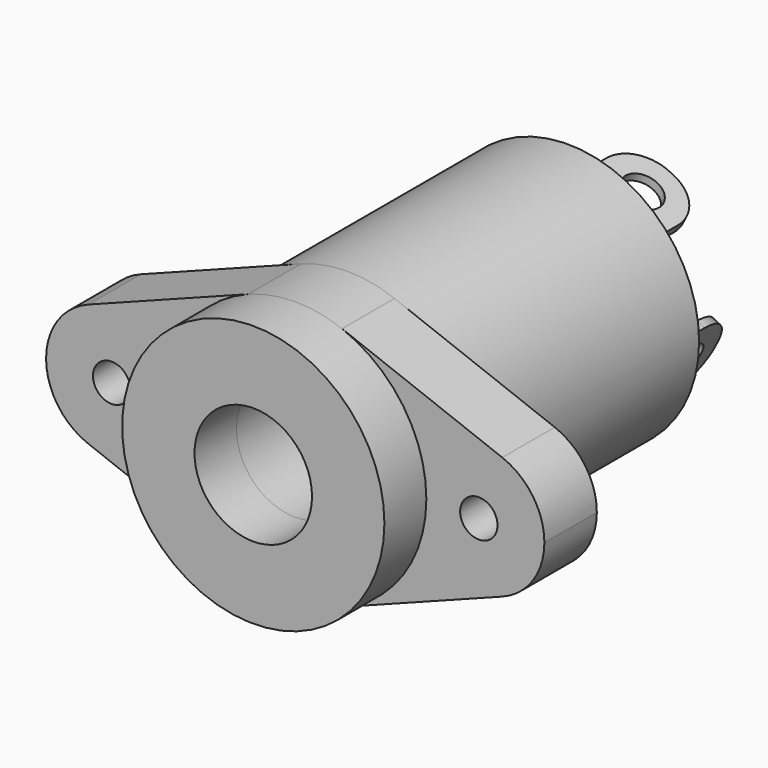
from build123d import *

# Parameters (mm, degrees)
F0_R          = 1.1303
F0_R_2        = 3.556
F1_DEPTH      = 3.96875
F2_R          = 7.9375
F2_R_2        = 3.556
F3_DEPTH      = 3.175
F3_DEPTH_BACK = 20.6375
F5_DEPTH      = 4.445
F6_R          = 1.143
F7_DEPTH      = 20.0161085099
F8_R          = 1.143
F9_DEPTH      = 23.1380417346


with BuildPart() as f1:
    # F0 (on Front) → F1 (new body)
    with BuildSketch(Plane.XZ):
        with BuildLine():
            ThreePointArc((-7.6823660714, -1.9962860002), (-7.9375, 0), (-7.6823660714, 1.9962860002))
            ThreePointArc((-7.6823660714, 1.9962860002), (-9.7917396627, 3.7425350625), (-12.5299107143, 3.707010039))
            ThreePointArc((-12.5299107143, 3.707010039), (-15.08125, 0), (-12.5299107143, -3.707010039))
            ThreePointArc((-12.5299107143, -3.707010039), (-9.7917396627, -3.7425350625), (-7.6823660714, -1.9962860002))
        make_face()
        with Locations((-11.1125, 0)):
            Circle(F0_R, mode=Mode.SUBTRACT)
        with BuildLine():
            ThreePointArc((12.5299107143, 3.707010039), (9.7917396627, 3.7425350625), (7.6823660714, 1.9962860002))
            ThreePointArc((7.6823660714, 1.9962860002), (7.8734581647, 1.0062617845), (7.9375, 0))
            ThreePointArc((7.9375, 0), (7.8734581647, -1.0062617845), (7.6823660714, -1.9962860002))
            ThreePointArc((7.6823660714, -1.9962860002), (9.7917396627, -3.7425350625), (12.5299107143, -3.707010039))
            ThreePointArc((12.5299107143, -3.707010039), (14.381775557, -2.2500697534), (15.08125, 0))
            ThreePointArc((15.08125, 0), (14.381775557, 2.2500697534), (12.5299107143, 3.707010039))
        make_face()
        with Locations((11.1125, 0)):
            Circle(F0_R, mode=Mode.SUBTRACT)
        with BuildLine():
            ThreePointArc((7.6823660714, 1.9962860002), (5.9152995581, 5.292743843), (2.8348214286, 7.4140200781))
            ThreePointArc((2.8348214286, 7.4140200781), (0, 7.9375), (-2.8348214286, 7.4140200781))
            ThreePointArc((-2.8348214286, 7.4140200781), (-5.9152995581, 5.292743843), (-7.6823660714, 1.9962860002))
            ThreePointArc((-7.6823660714, 1.9962860002), (-7.2807692819, 1.0338357059), (-7.14375, 0))
            ThreePointArc((-7.14375, 0), (-7.2807692819, -1.0338357059), (-7.6823660714, -1.9962860002))
            ThreePointArc((-7.6823660714, -1.9962860002), (-5.9152995581, -5.292743843), (-2.8348214286, -7.4140200781))
            ThreePointArc((-2.8348214286, -7.4140200781), (0, -7.9375), (2.8348214286, -7.4140200781))
            ThreePointArc((2.8348214286, -7.4140200781), (5.9152995581, -5.292743843), (7.6823660714, -1.9962860002))
            ThreePointArc((7.6823660714, -1.9962860002), (7.14375, 0), (7.6823660714, 1.9962860002))
        make_face()
        Circle(F0_R_2, mode=Mode.SUBTRACT)
        with BuildLine():
            ThreePointArc((-7.14375, 0), (-7.2807692819, 1.0338357059), (-7.6823660714, 1.9962860002))
            ThreePointArc((-7.6823660714, 1.9962860002), (-7.9375, 0), (-7.6823660714, -1.9962860002))
            ThreePointArc((-7.6823660714, -1.9962860002), (-7.2807692819, -1.0338357059), (-7.14375, 0))
        make_face()
        with BuildLine():
            ThreePointArc((7.9375, 0), (7.8734581647, 1.0062617845), (7.6823660714, 1.9962860002))
            ThreePointArc((7.6823660714, 1.9962860002), (7.14375, 0), (7.6823660714, -1.9962860002))
            ThreePointArc((7.6823660714, -1.9962860002), (7.8734581647, -1.0062617845), (7.9375, 0))
        make_face()
        with BuildLine():
            Line((12.5299107143, 3.707010039), (2.8348214286, 7.4140200781))
            ThreePointArc((2.8348214286, 7.4140200781), (5.9152995581, 5.292743843), (7.6823660714, 1.9962860002))
            ThreePointArc((7.6823660714, 1.9962860002), (9.7917396627, 3.7425350625), (12.5299107143, 3.707010039))
        make_face()
        with BuildLine():
            ThreePointArc((-7.6823660714, 1.9962860002), (-5.9152995581, 5.292743843), (-2.8348214286, 7.4140200781))
            Line((-2.8348214286, 7.4140200781), (-12.5299107143, 3.707010039))
            ThreePointArc((-12.5299107143, 3.707010039), (-9.7917396627, 3.7425350625), (-7.6823660714, 1.9962860002))
        make_face()
        with BuildLine():
            ThreePointArc((-2.8348214286, -7.4140200781), (-5.9152995581, -5.292743843), (-7.6823660714, -1.9962860002))
            ThreePointArc((-7.6823660714, -1.9962860002), (-9.7917396627, -3.7425350625), (-12.5299107143, -3.707010039))
            Line((-12.5299107143, -3.707010039), (-2.8348214286, -7.4140200781))
        make_face()
        with BuildLine():
            ThreePointArc((12.5299107143, -3.707010039), (9.7917396627, -3.7425350625), (7.6823660714, -1.9962860002))
            ThreePointArc((7.6823660714, -1.9962860002), (5.9152995581, -5.292743843), (2.8348214286, -7.4140200781))
            Line((2.8348214286, -7.4140200781), (12.5299107143, -3.707010039))
        make_face()
    extrude(amount=F1_DEPTH)

    # F2 (on face) → F3 (join, two sides)
    with BuildSketch(Plane.XZ.offset(3.96875)) as f3_sk:
        Circle(F2_R)
        Circle(F2_R_2, mode=Mode.SUBTRACT)
    extrude(amount=F3_DEPTH)
    extrude(f3_sk.sketch, amount=-F3_DEPTH_BACK)

    # F4 (on face) → F5 (join)
    with BuildSketch(Plane(origin=(0, 16.66875, 0), x_dir=(-1, 0, 0), z_dir=(0, 1, 0))):
        Polygon((-4.6868976554, 3.8834653813), (-2.5368989125, 4.9789444572), (-0.3869001697, 6.074423533), (-0.6175273435, 6.5270548473), (-4.9175248293, 4.3360966956), align=None)
        Polygon((-6.074423533, -0.3869001697), (-6.5270548473, -0.6175273435), (-4.3360966956, -4.9175248293), (-3.8834653813, -4.6868976554), (-4.9789444572, -2.5368989125), align=None)
        Polygon((0.3869001697, -6.074423533), (0.6175273435, -6.5270548473), (4.9175248293, -4.3360966956), (4.6868976554, -3.8834653813), (2.5368989125, -4.9789444572), align=None)
        Polygon((6.074423533, 0.3869001697), (6.5270548473, 0.6175273435), (4.3360966956, 4.9175248293), (3.8834653813, 4.6868976554), (4.9789444572, 2.5368989125), align=None)
    extrude(amount=F5_DEPTH)

    # F6 (on face) → F7 (cut, through all)
    with BuildSketch(Plane(origin=(2.7675260864, 0, 5.4315757715), x_dir=(0.8910065242, 0, -0.4539904997), z_dir=(0.4539904997, 0, 0.8910065242))):
        with BuildLine():
            Line((-2.413, 21.11375), (-2.413, 18.82775))
            ThreePointArc((-2.413, 18.82775), (-1.7434461018, 20.4441961018), (-0.127, 21.11375))
            Line((-0.127, 21.11375), (-2.413, 21.11375))
        make_face()
        with Locations((0, 18.82775)):
            Circle(F6_R)
        with BuildLine():
            ThreePointArc((0.127, 21.11375), (1.7434461018, 20.4441961018), (2.413, 18.82775))
            Line((2.413, 18.82775), (2.413, 21.11375))
            Line((2.413, 21.11375), (0.127, 21.11375))
        make_face()
    extrude(amount=-F7_DEPTH, mode=Mode.SUBTRACT)

    # F8 (on face) → F9 (cut, through all)
    with BuildSketch(Plane(origin=(5.4315757715, 0, -2.7675260864), x_dir=(0, 1, 0), z_dir=(0.8910065242, 0, -0.4539904997))):
        with BuildLine():
            Line((21.11375, 0.127), (21.11375, 2.413))
            Line((21.11375, 2.413), (18.82775, 2.413))
            ThreePointArc((18.82775, 2.413), (20.4441961018, 1.7434461018), (21.11375, 0.127))
        make_face()
        with Locations((18.82775, 0)):
            Circle(F8_R)
        with BuildLine():
            Line((21.11375, -2.413), (21.11375, -0.127))
            ThreePointArc((21.11375, -0.127), (20.4441961018, -1.7434461018), (18.82775, -2.413))
            Line((18.82775, -2.413), (21.11375, -2.413))
        make_face()
    extrude(amount=-F9_DEPTH, mode=Mode.SUBTRACT)


solid = f1.part
